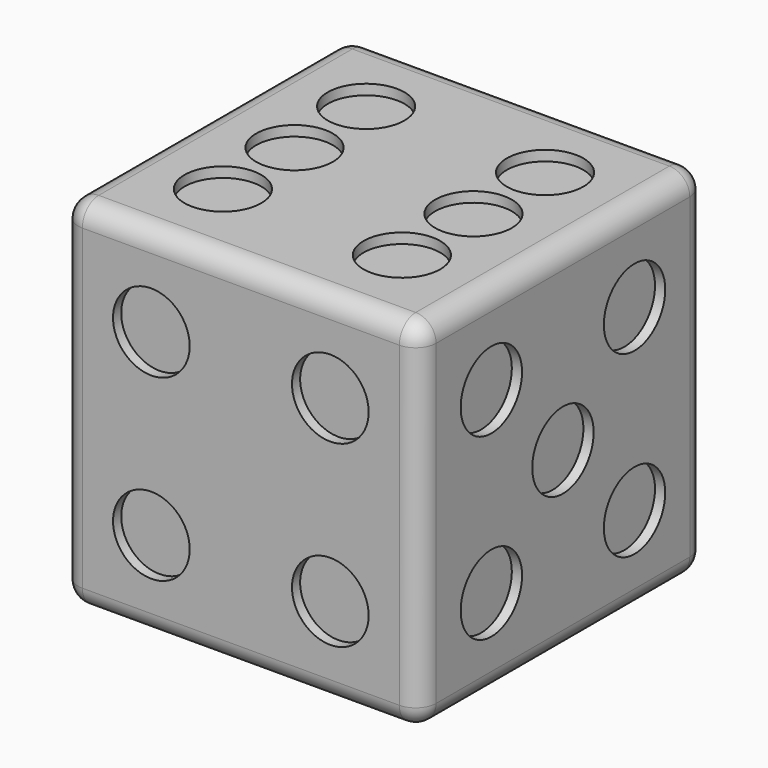
from build123d import *

# Parameters (mm, degrees)
F0_W       = 88.9
F0_H       = 88.9
F1_DEPTH   = 88.9
F2_R       = 9.525
F3_DEPTH   = 2.54
F4_R       = 9.525
F5_DEPTH   = 2.54
F6_R       = 9.525
F7_DEPTH   = 2.54
F8_R       = 9.525
F1_FACE1_W = 88.9
F1_FACE1_H = 88.9
F1_FACE1_R = 9.525
F9_DEPTH   = 2.54
F10_R      = 9.525
F11_DEPTH  = 2.54
F12_R      = 9.525
F13_DEPTH  = 2.54
F14_R      = 5.08


with BuildPart() as f1:
    # F0 (on Top) → F1 (new body)
    with BuildSketch(Plane.XY):
        with Locations((44.45, -44.45)):
            Rectangle(F0_W, F0_H)
    extrude(amount=F1_DEPTH)

    # F2 (on face) → F3 (cut)
    with BuildSketch(Plane.XY.offset(88.9)):
        with Locations((22.225, -22.225)):
            Circle(F2_R)
        with Locations((66.675, -22.225)):
            Circle(F2_R)
        with Locations((66.675, -44.45)):
            Circle(F2_R)
        with Locations((22.225, -44.45)):
            Circle(F2_R)
        with Locations((22.225, -66.675)):
            Circle(F2_R)
        with Locations((66.675, -66.675)):
            Circle(F2_R)
    extrude(amount=-F3_DEPTH, mode=Mode.SUBTRACT)

    # F4 (on face) → F5 (cut)
    with BuildSketch(Plane.XZ.offset(88.9)):
        with Locations((22.225, 66.675)):
            Circle(F4_R)
        with Locations((66.675, 66.675)):
            Circle(F4_R)
        with Locations((66.675, 22.225)):
            Circle(F4_R)
        with Locations((22.225, 22.225)):
            Circle(F4_R)
    extrude(amount=-F5_DEPTH, mode=Mode.SUBTRACT)

    # F6 (on face) → F7 (cut)
    with BuildSketch(Plane(origin=(0, 0, 0), x_dir=(1, 0, 0), z_dir=(0, 0, -1))):
        with Locations((44.45, 44.45)):
            Circle(F6_R)
    extrude(amount=-F7_DEPTH, mode=Mode.SUBTRACT)

    # F8 (on face) + F1_face1 (on face) → F9 (cut)
    with BuildSketch(Plane(origin=(0, 0, 0), x_dir=(-1, 0, 0), z_dir=(0, 1, 0))):
        with Locations((-66.675, 66.675)):
            Circle(F8_R)
        with Locations((-44.45, 44.45)):
            Circle(F8_R)
        with Locations((-22.225, 22.225)):
            Circle(F8_R)
    with BuildSketch(Plane(origin=(44.45, -88.9, 44.45), x_dir=(1, 0, 0), z_dir=(0, -1, 0))):
        Rectangle(F1_FACE1_W, F1_FACE1_H)
        with Locations((-22.225, 22.225)):
            Circle(F1_FACE1_R, mode=Mode.SUBTRACT)
        with Locations((22.225, 22.225)):
            Circle(F1_FACE1_R, mode=Mode.SUBTRACT)
        with Locations((-22.225, -22.225)):
            Circle(F1_FACE1_R, mode=Mode.SUBTRACT)
        with Locations((22.225, -22.225)):
            Circle(F1_FACE1_R, mode=Mode.SUBTRACT)
    extrude(amount=-F9_DEPTH, dir=(0, 1, 0), mode=Mode.SUBTRACT)

    # F10 (on face) → F11 (cut)
    with BuildSketch(Plane.YZ.offset(88.9)):
        with Locations((-66.675, 66.675)):
            Circle(F10_R)
        with Locations((-22.225, 66.675)):
            Circle(F10_R)
        with Locations((-44.45, 44.45)):
            Circle(F10_R)
        with Locations((-66.675, 22.225)):
            Circle(F10_R)
        with Locations((-22.225, 22.225)):
            Circle(F10_R)
    extrude(amount=-F11_DEPTH, mode=Mode.SUBTRACT)

    # F12 (on face) → F13 (cut)
    with BuildSketch(Plane(origin=(0, 0, 0), x_dir=(0, -1, 0), z_dir=(-1, 0, 0))):
        with Locations((22.225, 66.675)):
            Circle(F12_R)
        with Locations((66.675, 22.225)):
            Circle(F12_R)
    extrude(amount=-F13_DEPTH, mode=Mode.SUBTRACT)

    # F14
    f14_edges = [f1.edges().sort_by_distance(p)[0] for p in [
        (0, -44.45, 88.9),
        (44.45, -88.9, 88.9),
        (0, -88.9, 44.45),
        (44.45, -88.9, 0),
        (0, -44.45, 0),
        (44.45, 0, 0),
        (0, 0, 44.45),
        (44.45, 0, 88.9),
        (88.9, 0, 44.45),
        (88.9, -44.45, 88.9),
        (88.9, -88.9, 44.45),
        (88.9, -44.45, 0),
    ]]
    fillet(f14_edges, radius=F14_R)


solid = f1.part
